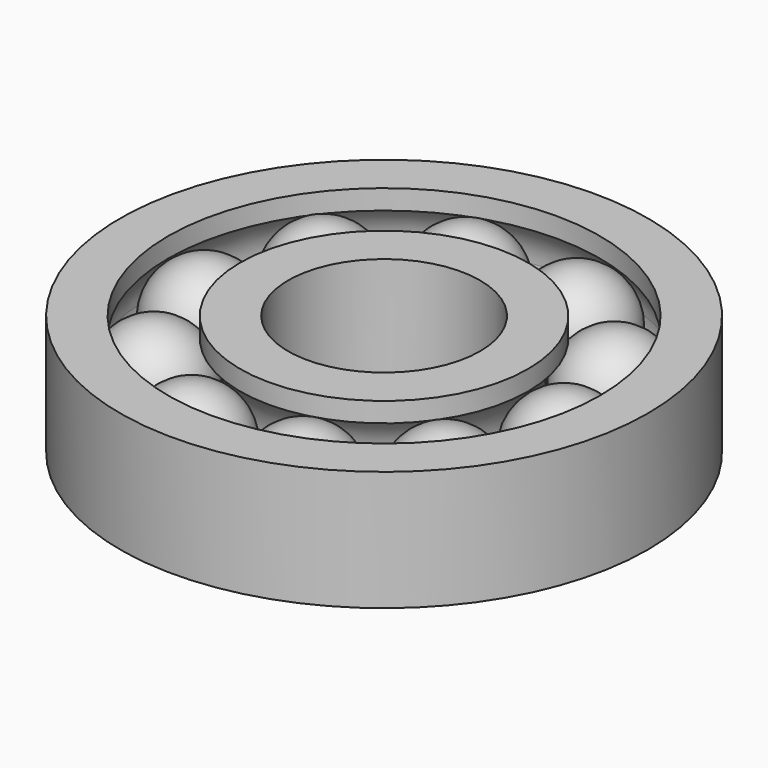
from build123d import *

# Parameters (mm, degrees)
TORUS_R           = 2.25
CYLINDER003_R     = 4
CYLINDER003_DEPTH = 10
CYLINDER002_R     = 6
CYLINDER002_DEPTH = 5
CYLINDER001_R     = 9
CYLINDER001_DEPTH = 10
CYLINDER_R        = 11
CYLINDER_DEPTH    = 5
ARRAY_COUNT       = 10


with BuildPart() as torus:
    # Torus → Torus (revolve)
    with BuildSketch(Plane(origin=(0, 0, 2.5), x_dir=(1, 0, 0), z_dir=(0, -1, 0))):
        with Locations((7.5, 0)):
            Circle(TORUS_R)
    revolve(axis=Axis((0, 0, 2.5), (0, 0, 1)))


with BuildPart() as cylinder003:
    # Cylinder003 → Cylinder003 (new body)
    with BuildSketch(Plane.XY.offset(-2.5)):
        Circle(CYLINDER003_R)
    extrude(amount=CYLINDER003_DEPTH)


with BuildPart() as cut001:
    # Cylinder002 → Cylinder002 (new body)
    with BuildSketch(Plane.XY):
        Circle(CYLINDER002_R)
    extrude(amount=CYLINDER002_DEPTH)

    # Cut001: cut Cylinder003
    add(cylinder003.part, mode=Mode.SUBTRACT)


with BuildPart() as cylinder001:
    # Cylinder001 → Cylinder001 (new body)
    with BuildSketch(Plane.XY.offset(-2.5)):
        Circle(CYLINDER001_R)
    extrude(amount=CYLINDER001_DEPTH)


with BuildPart() as cut002:
    # Cylinder → Cylinder (new body)
    with BuildSketch(Plane.XY):
        Circle(CYLINDER_R)
    extrude(amount=CYLINDER_DEPTH)

    # Cut: cut Cylinder001
    add(cylinder001.part, mode=Mode.SUBTRACT)

    # Fusion: union Cut001
    add(cut001.part)

    # Cut002: cut Torus
    add(torus.part, mode=Mode.SUBTRACT)


with BuildPart() as array:
    # Sphere → Sphere (revolve)
    with BuildSketch(Plane(origin=(7.5, 0, 2.5), x_dir=(1, 0, 0), z_dir=(0, -1, 0))):
        with BuildLine():
            ThreePointArc((0, -2.2), (2.2, 0), (0, 2.2))
            Line((0, 2.2), (0, -2.2))
        make_face()
    revolve(axis=Axis((7.5, 0, 2.5), (0, 0, 1)))

    # Array: Array ×10 about axis
    array_axis = Axis((0, 0, 0), (0, 0, 1))


with BuildPart() as array_1:
    add(array.part)
    for i in range(1, ARRAY_COUNT):
        add(array.part.rotate(array_axis, i * 360 / ARRAY_COUNT))


solid = Compound([cut002.part, array_1.part])
